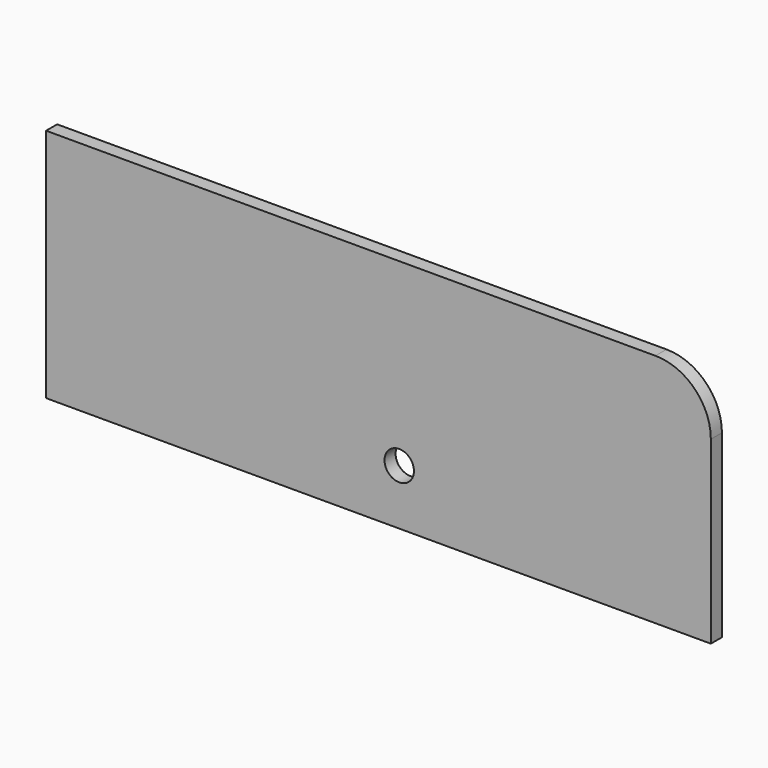
from build123d import *

# Parameters (mm, degrees)
F0_R     = 13.49375
F1_DEPTH = 12.7


with BuildPart() as f1:
    # F0 (on Front) → F1 (new body)
    with BuildSketch(Plane.XZ):
        with BuildLine():
            Line((246.243928, 52.37335), (-312.556072, 52.37335))
            Line((-312.556072, 52.37335), (-312.556072, -163.52665))
            Line((-312.556072, -163.52665), (297.043928, -163.52665))
            Line((297.043928, -163.52665), (297.043928, 1.57335))
            ThreePointArc((297.043928, 1.57335), (282.164953, 37.494374), (246.243928, 52.37335))
        make_face()
        with Locations((11.293928, -112.72665)):
            Circle(F0_R, mode=Mode.SUBTRACT)
    extrude(amount=F1_DEPTH)


solid = f1.part
